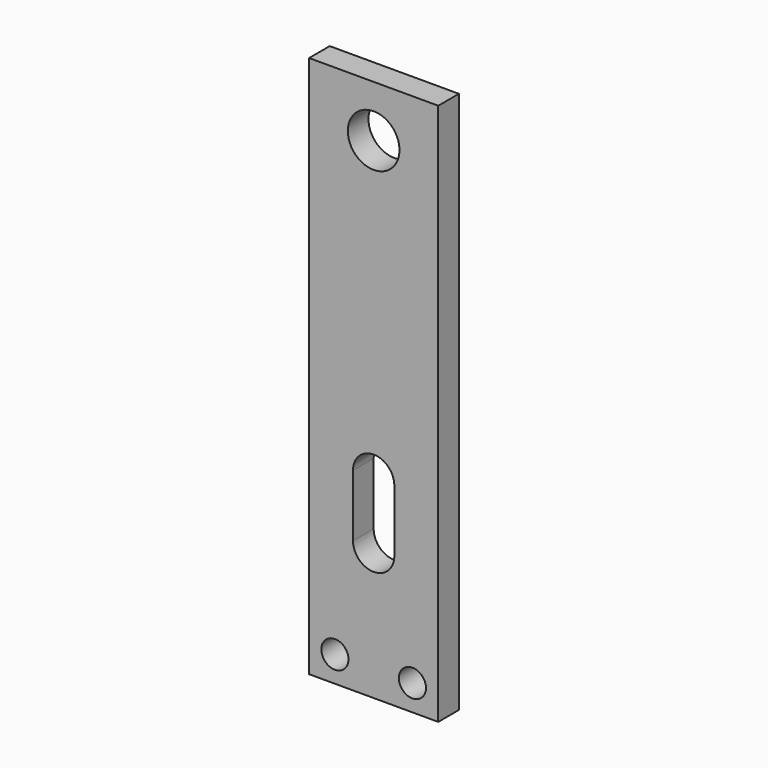
from build123d import *

# Parameters (mm, degrees)
F0_W     = 50
F0_H     = 210
F1_DEPTH = 5
F3_D     = 20
F4_DEPTH = 10
F6_D     = 10.5


with BuildPart() as f1:
    # F0 (on Front) → F1 (new body, symmetric)
    with BuildSketch(Plane.XZ):
        Rectangle(F0_W, F0_H)
    extrude(amount=F1_DEPTH, both=True)

    # F3 (through all)
    with Locations(Plane.XZ.offset(5)):
        with Locations((0, 85)):
            Hole(F3_D / 2)

    # F2 (on face) → F4 (cut, through all)
    with BuildSketch(Plane.XZ.offset(5)):
        with BuildLine():
            Line((8, -54), (8, -30))
            ThreePointArc((8, -30), (0, -22), (-8, -30))
            Line((-8, -30), (-8, -54))
            ThreePointArc((-8, -54), (0, -62), (8, -54))
        make_face()
    extrude(amount=-F4_DEPTH, mode=Mode.SUBTRACT)

    # F6 (through all)
    with Locations(Plane.XZ.offset(5)):
        with Locations((-15, -95), (15, -95)):
            Hole(F6_D / 2)


solid = f1.part
